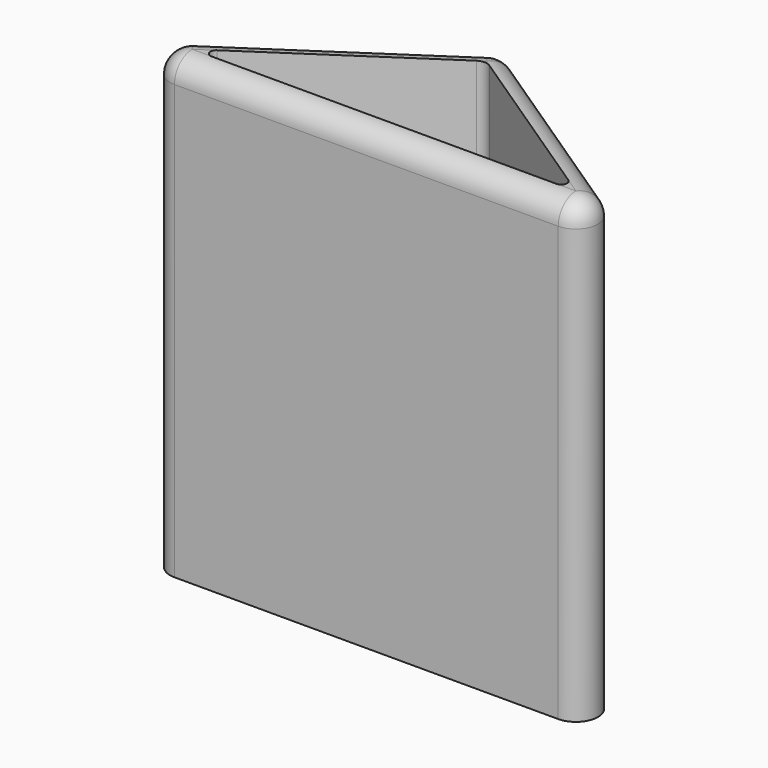
from build123d import *

# Parameters (mm, degrees)
PAD010_DEPTH = 31
FILLET004_R  = 1.5
POCKET_DEPTH = 32


with BuildPart() as part:
    # Sketch002 → Pad010 (new body)
    with BuildSketch(Plane.XY):
        Polygon((0, 65), (18, 53), (-18, 53), align=None)
    extrude(amount=PAD010_DEPTH)

    # Fillet004
    fillet004_edges = [part.edges().sort_by_distance(p)[0] for p in [
        (-18, 53, 15.5),
        (18, 53, 15.5),
        (0, 65, 15.5),
        (0, 53, 31),
        (-9, 59, 31),
        (9, 59, 31),
    ]]
    fillet(fillet004_edges, radius=FILLET004_R)

    # Sketch004 (on Face11 of Fillet004) → Pocket (cut)
    with BuildSketch(Plane.XY.offset(31)):
        with BuildLine():
            Line((-11.9466006322, 55.2328239407), (-0.4437599322, 62.9013844075))
            ThreePointArc((0.4437600752, 62.9013843122), (8.59e-08, 63.0357440221), (-0.4437599322, 62.9013844075))
            Line((0.4437600752, 62.9013843122), (11.9466006329, 55.2328239403))
            ThreePointArc((11.724725846, 54.5), (12.1075640333, 54.7840894266), (11.9466006329, 55.2328239403))
            Line((-11.7247263937, 54.5), (11.724725846, 54.5))
            ThreePointArc((-11.9466006322, 55.2328239407), (-12.1075641128, 54.7840896892), (-11.7247263937, 54.5))
        make_face()
    extrude(amount=-POCKET_DEPTH, mode=Mode.SUBTRACT)


solid = part.part
